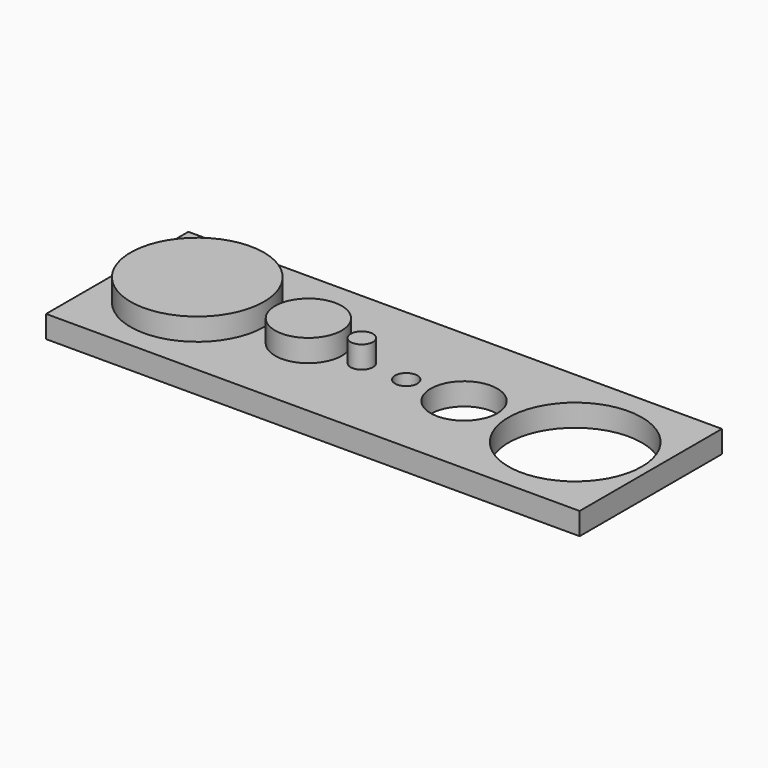
from build123d import *

# Parameters (mm, degrees)
F0_W     = 120
F0_H     = 40
F0_R     = 2.5
F0_R_2   = 7.5
F0_R_3   = 15
F1_DEPTH = 5
F2_R     = 2.5
F2_R_2   = 7.5
F2_R_3   = 15
F3_DEPTH = 5


with BuildPart() as f1:
    # F0 (on Top) → F1 (new body)
    with BuildSketch(Plane.XY):
        Rectangle(F0_W, F0_H)
        with Locations((5, 0)):
            Circle(F0_R, mode=Mode.SUBTRACT)
        with Locations((18, 0)):
            Circle(F0_R_2, mode=Mode.SUBTRACT)
        with Locations((43, 0)):
            Circle(F0_R_3, mode=Mode.SUBTRACT)
    extrude(amount=F1_DEPTH)

    # F2 (on face) → F3 (join)
    with BuildSketch(Plane.XY.offset(5)):
        with Locations((-5, 0)):
            Circle(F2_R)
        with Locations((-17, 0)):
            Circle(F2_R_2)
        with Locations((-42, 0)):
            Circle(F2_R_3)
    extrude(amount=F3_DEPTH)


solid = f1.part
